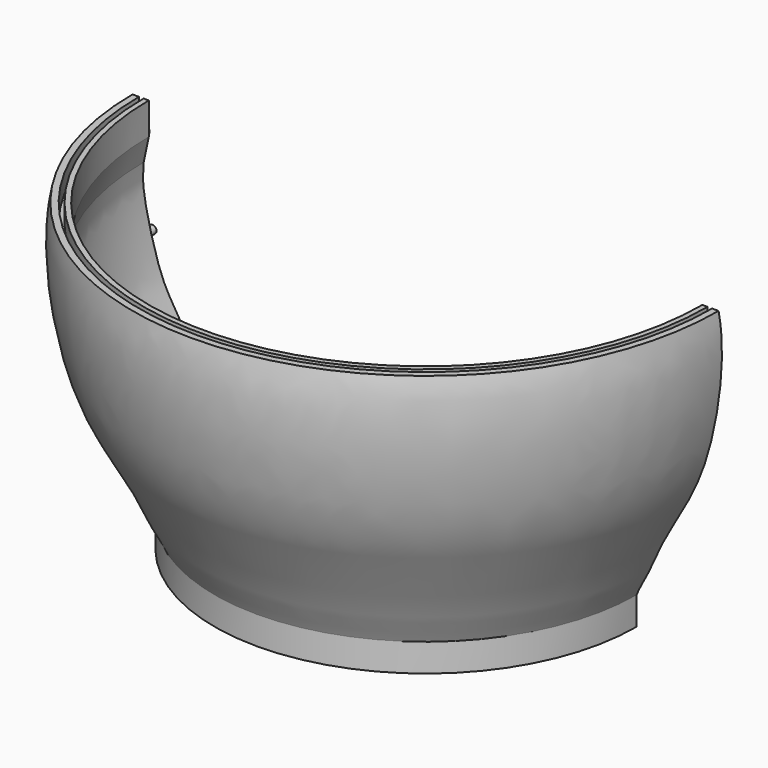
from build123d import *

# Parameters (mm, degrees)
F1_ANGLE  = 180
F3_ANGLE  = 180
F5_R      = 1.5875
F6_DEPTH  = 3.175
F7_R      = 1.9685
F8_DEPTH  = 6.858
F10_ANGLE = 180


with BuildPart() as f1:
    # F0 (on Front) → F1 (revolve)
    with BuildSketch(Plane.XZ):
        Polygon((82.296, 0), (76.2, 0), (76.2, -5.08), (78.486, -5.08), (78.486, -10.922), (79.756, -10.922), (79.756, -5.08), (82.296, -5.08), align=None)
    revolve(axis=Axis((0, 0, -3.3090594225), (0, 0, -1)), revolution_arc=F1_ANGLE)

    # F2 (on face) → F3 (revolve)
    with BuildSketch(Plane(origin=(0, 0, 0), x_dir=(-1, 0, 0), z_dir=(0, 1, 0))):
        with BuildLine():
            Line((109.982, 107.95), (107.95, 107.95))
            Line((107.95, 107.95), (107.95, 95.4419970512))
            Line((107.95, 95.4419970512), (109.9555790424, 86.0509946942))
            add(Edge.make_bspline(
                [(109.9555790424, 86.0509946942), (110.2117663194, 83.2401192533), (110.6106504967, 76.722351273), (105.9962332065, 57.8653367135), (101.756604934, 45.6968411425), (94.8213054674, 35.4374632093), (89.3245305774, 25.0347896967), (81.0594552677, 8.2140825247), (77.5917934991, 2.3874851052), (76.2, 0)],
                knots=[0, 0, 0, 0, 0.119269968, 0.291866141, 0.4362120888, 0.5707580275, 0.708802049, 0.8790644733, 1, 1, 1, 1], degree=3))
            Line((76.2, 0), (82.296, 0))
            add(Edge.make_bspline(
                [(82.296, 0), (83.3510677988, 2.7460559383), (86.9251299009, 8.3371760807), (92.2485769181, 22.0550745253), (104.7864032306, 41.4168156388), (113.5254737482, 65.4432313512), (117.0270400805, 95.0726980879), (114.3, 107.95)],
                knots=[0, 0, 0, 0, 0.1305115226, 0.2947178963, 0.4990111446, 0.7205265486, 1, 1, 1, 1], degree=3))
            Line((114.3, 107.95), (111.76, 107.95))
            Line((111.76, 107.95), (111.76, 100.7509976625))
            Line((111.76, 100.7509976625), (109.982, 100.7509976625))
            Line((109.982, 100.7509976625), (109.982, 107.95))
        make_face()
    revolve(axis=Axis((0, 0, 53.975), (0, 0, 1)), revolution_arc=F3_ANGLE)

    # F5 (on face) → F6 (join)
    with BuildSketch(Plane(origin=(0, 0, 0), x_dir=(-1, 0, 0), z_dir=(0, 1, 0))):
        with Locations((111.76, 95.25)):
            Circle(F5_R)
        with Locations((79.4557631016, 0)):
            Circle(F5_R)
        with Locations((109.0777590871, 62.0304606855)):
            Circle(F5_R)
        with Locations((-111.76, 95.25)):
            Circle(F5_R)
        with Locations((-109.0777590871, 62.0304606855)):
            Circle(F5_R)
        with Locations((-79.4557631016, 0)):
            Circle(F5_R)
    extrude(amount=F6_DEPTH)

    # F7 (on face) → F8 (cut)
    with BuildSketch(Plane(origin=(0, 3.175, 0), x_dir=(-1, 0, 0), z_dir=(0, 1, 0))):
        with Locations((-111.76, 95.25)):
            Circle(F7_R)
        with Locations((-109.0668961406, 62.0584301651)):
            Circle(F7_R)
        with Locations((-79.4181898236, 0)):
            Circle(F7_R)
    extrude(amount=-F8_DEPTH, mode=Mode.SUBTRACT)

    # F9 (on face) → F10 (revolve)
    with BuildSketch(Plane(origin=(0, 0, 0), x_dir=(-1, 0, 0), z_dir=(0, 1, 0))):
        Polygon((-81.896, -5.08), (-82.296, -5.08), (-82.296, -10.922), (-81.096, -10.922), (-81.096, -5.7301754132), align=None)
        Polygon((-76.2, -10.922), (-76.2, -5.08), (-76.6, -5.08), (-77.4, -5.6824819185), (-77.4, -10.922), align=None)
    revolve(axis=Axis((0, 0, -7.6545081101), (0, 0, -1)), revolution_arc=F10_ANGLE)


solid = f1.part
